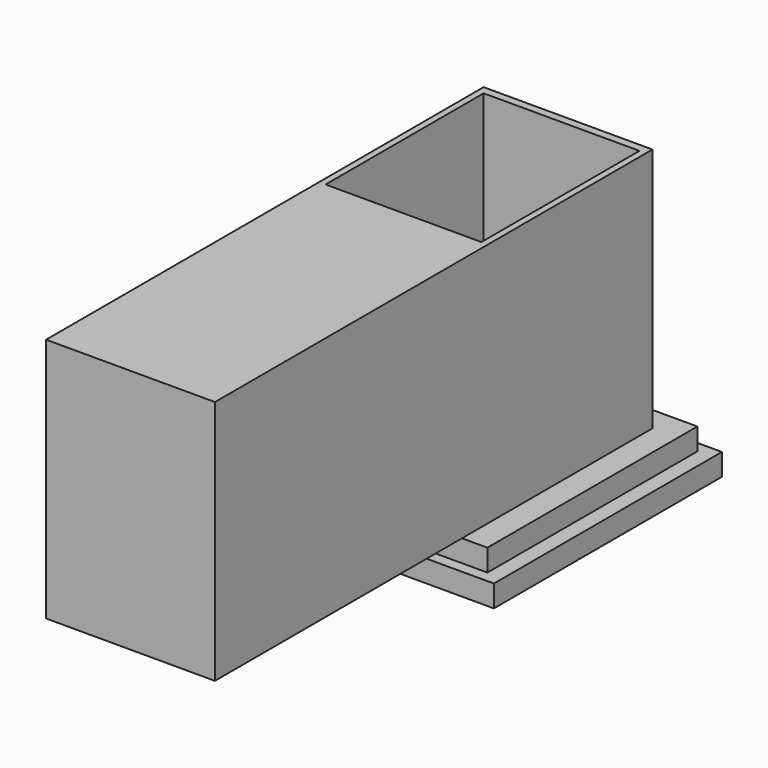
from build123d import *

# Parameters (mm, degrees)
F0_W      = 290.640860796
F0_H      = 330.3228616714
F1_DEPTH  = 25.4
F2_W      = 254.641264677
F2_H      = 304.1897118092
F3_DEPTH  = 25.4
F4_W      = 195.6849247217
F4_H      = 247.7421462536
F5_DEPTH  = 101.6
F6_W      = 180.6322485209
F6_H      = 228.9262861013
F7_DEPTH  = 25.4
F7_TAPER  = -3
F8_W      = 137.9829794168
F8_H      = 183.7682276964
F9_DEPTH  = 25.4
F9_TAPER  = -10
F10_W     = 82.7897712588
F10_H     = 121.0486963391
F11_DEPTH = 25.4
F11_TAPER = -3
F12_DEPTH = 132.08
F13_DEPTH = 99.06
F14_DEPTH = 83.82
F15_DEPTH = 254


with BuildPart() as f1:
    # F0 (on Top) → F1 (new body)
    with BuildSketch(Plane.XY):
        Rectangle(F0_W, F0_H)
    extrude(amount=F1_DEPTH)

    # F2 (on face) → F3 (join)
    with BuildSketch(Plane.XY.offset(25.4)):
        Rectangle(F2_W, F2_H)
    extrude(amount=F3_DEPTH)

    # F4 (on face) → F5 (join)
    with BuildSketch(Plane.XY.offset(50.8)):
        Rectangle(F4_W, F4_H)
    extrude(amount=F5_DEPTH)

    # F6 (on face) → F7 (cut)
    with BuildSketch(Plane.XY.offset(152.4)):
        Rectangle(F6_W, F6_H)
    extrude(amount=-F7_DEPTH, taper=F7_TAPER, mode=Mode.SUBTRACT)

    # F8 (on face) → F9 (cut)
    with BuildSketch(Plane.XY.offset(127)):
        Rectangle(F8_W, F8_H)
    extrude(amount=-F9_DEPTH, taper=F9_TAPER, mode=Mode.SUBTRACT)

    # F10 (on face) → F11 (cut)
    with BuildSketch(Plane.XY.offset(101.6)):
        Rectangle(F10_W, F10_H)
    extrude(amount=-F11_DEPTH, taper=F11_TAPER, mode=Mode.SUBTRACT)

    # F12 (add): a face of the model
    f12_faces = [f1.faces().sort_by_distance(p)[0] for p in [
        (0, -123.8710731268, 101.6),
    ]]
    extrude(f12_faces, amount=F12_DEPTH)

    # F13 (add): a face of the model
    f13_faces = [f1.faces().sort_by_distance(p)[0] for p in [
        (0, -148.8583176808, 152.4),
    ]]
    extrude(f13_faces, amount=F13_DEPTH)

    # F14 (add): a face of the model
    f14_faces = [f1.faces().sort_by_distance(p)[0] for p in [
        (0, -148.8583176808, 251.46),
    ]]
    extrude(f14_faces, amount=F14_DEPTH)

    # F15 (add): a face of the model
    f15_faces = [f1.faces().sort_by_distance(p)[0] for p in [
        (0, -255.9510731268, 193.04),
    ]]
    extrude(f15_faces, amount=F15_DEPTH)


solid = f1.part
